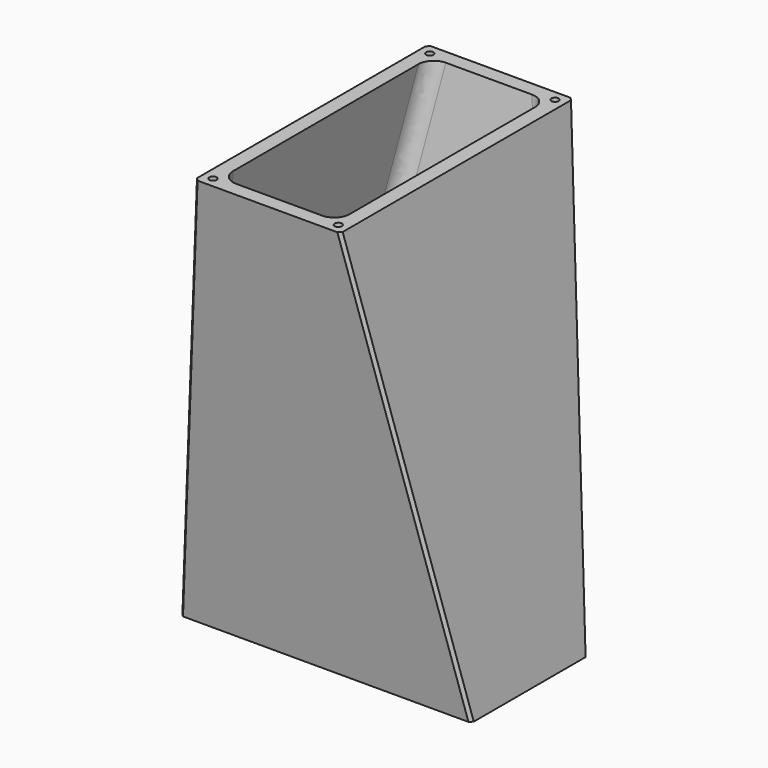
from build123d import *

# Parameters (mm, degrees)
F1_W      = 100
F1_H      = 50
F3_W      = 50
F3_H      = 100
F2_W      = 90
F2_H      = 40
F4_W      = 40
F4_H      = 90
F7_R      = 5
F8_SIZE   = 1
F9_D      = 2.5
F9_DEPTH  = 10
F9_TIP    = 0.7510757738
F10_D     = 2.5
F10_DEPTH = 10
F10_TIP   = 0.7510757738


with BuildPart() as f5:
    # F1 (on Top) → F5 section 0
    with BuildSketch(Plane.XY):
        Rectangle(F1_W, F1_H)
    # F3 (on offset) → F5 section 1
    with BuildSketch(Plane.XY.offset(150)):
        Rectangle(F3_W, F3_H)
    loft()

    # F2 (on Top) → F6 section 0
    with BuildSketch(Plane.XY):
        Rectangle(F2_W, F2_H)
    # F4 (on offset) → F6 section 1
    with BuildSketch(Plane.XY.offset(150)):
        Rectangle(F4_W, F4_H)
    loft(mode=Mode.SUBTRACT)

    # F7
    f7_edges = [f5.edges().sort_by_distance(p)[0] for p in [
        (-32.5, 32.5, 75),
        (32.5, 32.5, 75),
        (32.5, -32.5, 75),
        (-32.5, -32.5, 75),
    ]]
    fillet(f7_edges, radius=F7_R)

    # F8
    f8_edges = [f5.edges().sort_by_distance(p)[0] for p in [
        (37.5, 37.5, 75),
        (-37.5, 37.5, 75),
        (37.5, -37.5, 75),
        (-37.5, -37.5, 75),
    ]]
    chamfer(f8_edges, length=F8_SIZE)

    # F9
    with Locations(Plane.XY.offset(150)):
        with Locations((21.5, 46.5), (21.5, -46.5), (-21.5, -46.5), (-21.5, 46.5)):
            Hole(F9_D / 2, depth=F9_DEPTH)
            with Locations((0, 0, -(F9_DEPTH + F9_TIP / 2))):  # 118° drill point
                Cone(0, F9_D / 2, F9_TIP, mode=Mode.SUBTRACT)

    # F10
    with Locations(Plane(origin=(0, 0, 0), x_dir=(1, 0, 0), z_dir=(0, 0, -1))):
        with Locations((46.5, -21.5), (-46.5, -21.5), (-46.5, 21.5), (46.5, 21.5)):
            Hole(F10_D / 2, depth=F10_DEPTH)
            with Locations((0, 0, -(F10_DEPTH + F10_TIP / 2))):  # 118° drill point
                Cone(0, F10_D / 2, F10_TIP, mode=Mode.SUBTRACT)


solid = f5.part
